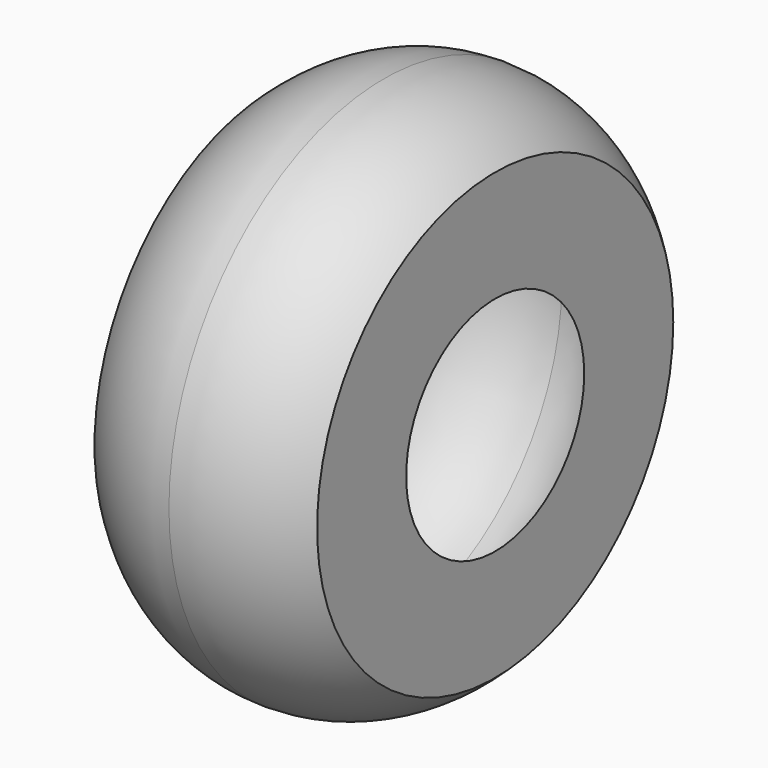
from build123d import *


with BuildPart() as f1:
    # F0 (on Top) → F1 (revolve)
    with BuildSketch(Plane.XY):
        with BuildLine():
            Line((0, 46.901434), (-46.901434, 46.901434))
            Line((-46.901434, 46.901434), (-46.901434, 0))
            ThreePointArc((-46.901434, 0), (-33.164322, 33.164322), (0, 46.901434))
        make_face()
        with BuildLine():
            ThreePointArc((46.901434, 46.901434), (25.382874, 61.279677), (0, 66.328645))
            ThreePointArc((0, 66.328645), (-25.382873, 61.279677), (-46.901434, 46.901434))
            Line((-46.901434, 46.901434), (0, 46.901434))
            Line((0, 46.901434), (46.901434, 46.901434))
        make_face()
        with BuildLine():
            Line((46.901434, 0), (46.901434, 46.901434))
            Line((46.901434, 46.901434), (0, 46.901434))
            ThreePointArc((0, 46.901434), (33.164322, 33.164322), (46.901434, 0))
        make_face()
    revolve(axis=Axis((0, -46.901434, 0), (-1, 0, 0)))


solid = f1.part
